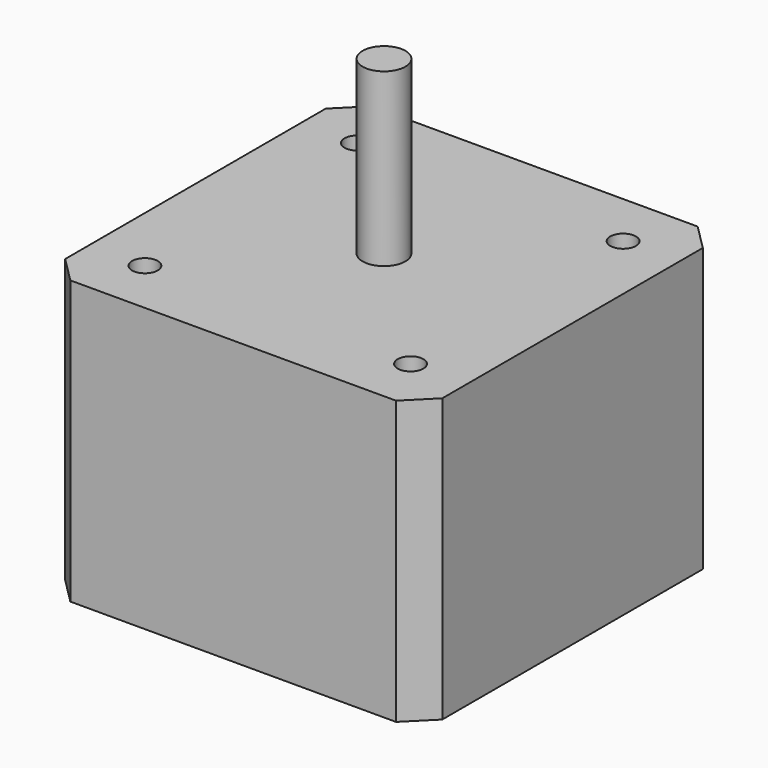
from build123d import *

# Parameters (mm, degrees)
F0_W     = 44
F0_H     = 44
F0_R     = 2.5
F1_DEPTH = 33
F2_DEPTH = 53
F3_SIZE  = 3
F4_R     = 1.5
F5_DEPTH = 10


with BuildPart() as f1:
    # F0 (on Top) → F1 (new body)
    with BuildSketch(Plane.XY):
        Rectangle(F0_W, F0_H)
        Circle(F0_R, mode=Mode.SUBTRACT)
    extrude(amount=F1_DEPTH)

    # F0 (on Top) → F2 (join)
    with BuildSketch(Plane.XY):
        Circle(F0_R)
    extrude(amount=F2_DEPTH)

    # F3
    f3_edges = [f1.edges().sort_by_distance(p)[0] for p in [
        (22, 22, 16.5),
        (22, -22, 16.5),
        (-22, 22, 16.5),
        (-22, -22, 16.5),
    ]]
    chamfer(f3_edges, length=F3_SIZE)

    # F4 (on face) → F5 (cut)
    with BuildSketch(Plane.XY.offset(33)):
        with Locations((-15.5, 15.5)):
            Circle(F4_R)
        with Locations((15.5, 15.5)):
            Circle(F4_R)
        with Locations((15.5, -15.5)):
            Circle(F4_R)
        with Locations((-15.5, -15.5)):
            Circle(F4_R)
    extrude(amount=-F5_DEPTH, mode=Mode.SUBTRACT)


with BuildPart() as f6_1:
    # F6: copy of F1
    add(f1.part)


solid = Compound([f1.part, f6_1.part])
